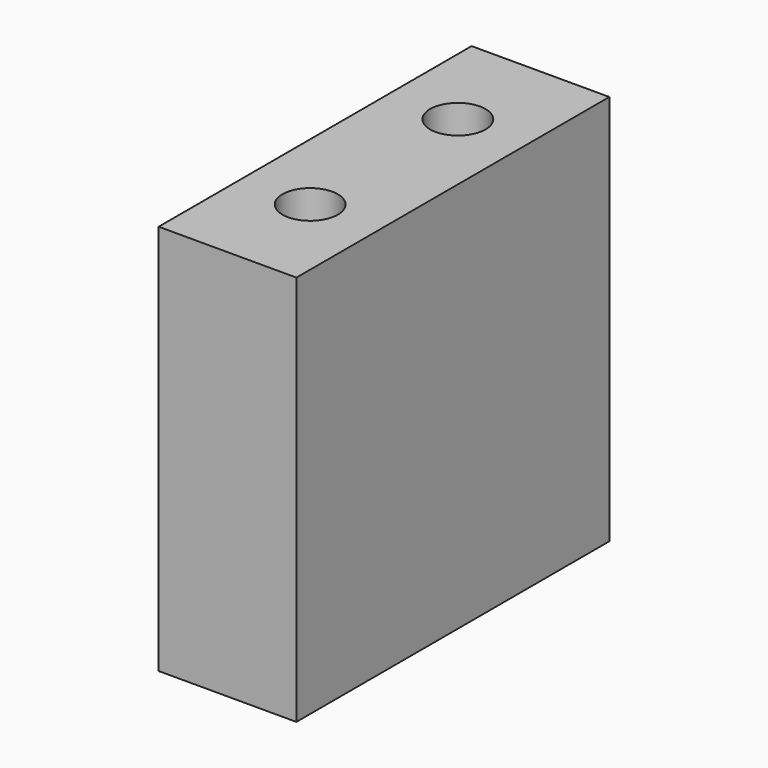
from build123d import *

# Parameters (mm, degrees)
F0_W     = 12.7
F0_H     = 36.068
F1_DEPTH = 36.068
F3_D     = 5.1054


with BuildPart() as f1:
    # F0 (on Top) → F1 (new body)
    with BuildSketch(Plane.XY):
        with Locations((6.35, 18.034)):
            Rectangle(F0_W, F0_H)
    extrude(amount=-F1_DEPTH)

    # F3 (through all)
    with Locations(Plane.XY):
        with Locations((6.35, 9.525), (6.35, 26.543)):
            Hole(F3_D / 2)


solid = f1.part
